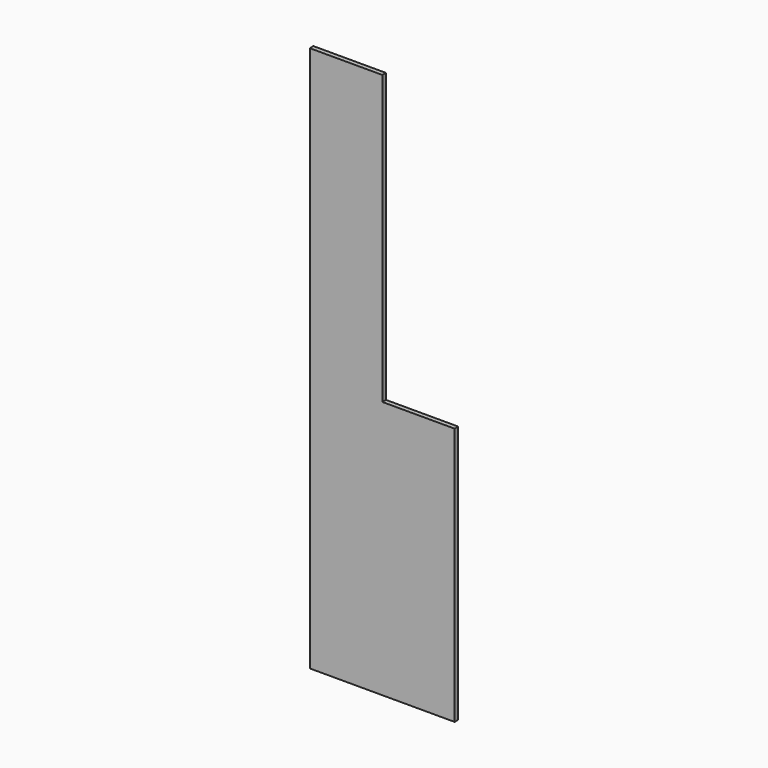
from build123d import *

# Parameters (mm, degrees)
F0_W     = 609.6
F0_H     = 2298.7
F1_DEPTH = 19.05
F2_W     = 304.8
F2_H     = 1219.2
F3_DEPTH = 19.051


with BuildPart() as f1:
    # F0 (on Front) → F1 (new body)
    with BuildSketch(Plane.XZ):
        with Locations((304.8, 1149.35)):
            Rectangle(F0_W, F0_H)
    extrude(amount=-F1_DEPTH)

    # F2 (on Front) → F3 (cut, through all)
    with BuildSketch(Plane.XZ):
        with Locations((457.844972, 1696.496766)):
            Rectangle(F2_W, F2_H)
    extrude(amount=-F3_DEPTH, mode=Mode.SUBTRACT)


solid = f1.part
